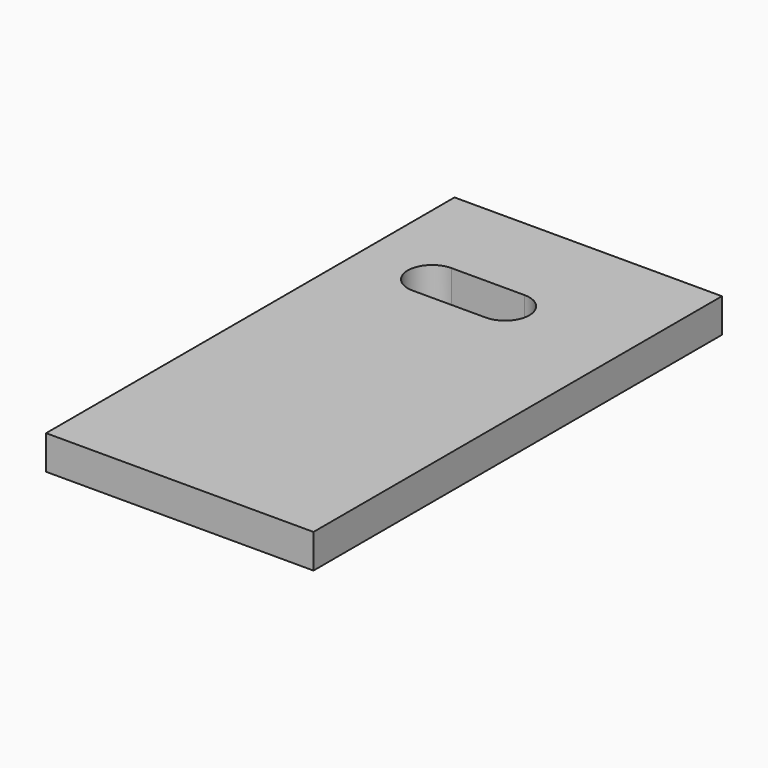
from build123d import *

# Parameters (mm, degrees)
EXTRUDE005_DEPTH = 7
BOX096_W         = 7
BOX096_H         = 105
BOX096_DEPTH     = 55


with BuildPart() as wirecut002:
    # Sketch016 (on Face1 of Box096) → Extrude005 (new body)
    with BuildSketch(Plane(origin=(340, 25, 107), x_dir=(0, -1, 0), z_dir=(0, 0, 1))):
        with BuildLine():
            ThreePointArc((-75.5, 30), (-80.5, 35), (-85.5, 30))
            Line((-85.5, 30), (-85.5, 15))
            ThreePointArc((-85.5, 15), (-80.5, 10), (-75.5, 15))
            Line((-75.5, 30), (-75.5, 15))
        make_face()
    extrude(amount=-EXTRUDE005_DEPTH)


with BuildPart() as cut011:
    # Box096 → Box096 (new body)
    with BuildSketch(Plane(origin=(340, 25, 107), x_dir=(0, 0, -1), z_dir=(1, 0, 0))):
        with Locations((3.5, 52.5)):
            Rectangle(BOX096_W, BOX096_H)
    extrude(amount=BOX096_DEPTH)

    # Cut011: cut Wirecut002
    add(wirecut002.part, mode=Mode.SUBTRACT)


solid = cut011.part
